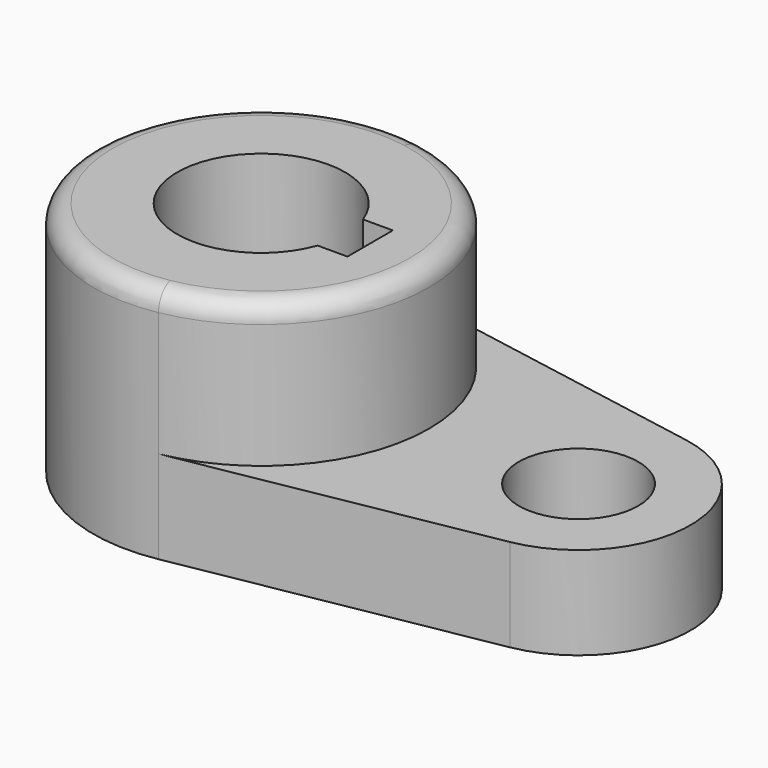
from build123d import *

# Parameters (mm, degrees)
F0_R     = 10.16
F1_DEPTH = 15.7734
F3_DEPTH = 24.4602
F4_R     = 3.302


with BuildPart() as f1:
    # F0 (on Top) → F1 (new body)
    with BuildSketch(Plane.XY):
        with BuildLine():
            ThreePointArc((5.0426470588, -28.1265414802), (21.9160245563, -18.3362616868), (28.575, 0))
            ThreePointArc((28.575, 0), (21.9160245563, 18.3362616868), (5.0426470588, 28.1265414802))
            ThreePointArc((5.0426470588, 28.1265414802), (-28.575, 0), (5.0426470588, -28.1265414802))
        make_face()
        with BuildLine():
            ThreePointArc((13.448752708, -4.8232465051), (-14.2875, 0), (13.448752708, 4.8232465051))
            Line((13.448752708, 4.8232465051), (18.5293, 4.8232465051))
            Line((18.5293, 4.8232465051), (18.5293, -4.8232465051))
            Line((18.5293, -4.8232465051), (13.448752708, -4.8232465051))
        make_face(mode=Mode.SUBTRACT)
        with BuildLine():
            ThreePointArc((5.0426470588, 28.1265414802), (21.9160245563, 18.3362616868), (28.575, 0))
            ThreePointArc((28.575, 0), (21.9160245563, -18.3362616868), (5.0426470588, -28.1265414802))
            Line((5.0426470588, -28.1265414802), (57.3367647059, -18.7510276535))
            ThreePointArc((57.3367647059, -18.7510276535), (73.025, 0), (57.3367647059, 18.7510276535))
            Line((57.3367647059, 18.7510276535), (5.0426470588, 28.1265414802))
        make_face()
        with Locations((53.975, 0)):
            Circle(F0_R, mode=Mode.SUBTRACT)
    extrude(amount=F1_DEPTH)

    # F2 (on face) → F3 (join)
    with BuildSketch(Plane.XY.offset(15.7734)):
        with BuildLine():
            ThreePointArc((5.0426470588, -28.1265414802), (21.9160245563, -18.3362616868), (28.575, 0))
            ThreePointArc((28.575, 0), (21.9160245563, 18.3362616868), (5.0426470588, 28.1265414802))
            ThreePointArc((5.0426470588, 28.1265414802), (-28.575, 0), (5.0426470588, -28.1265414802))
        make_face()
        with BuildLine():
            Line((18.5293, -4.8232465051), (13.448752708, -4.8232465051))
            ThreePointArc((13.448752708, -4.8232465051), (-14.2875, 0), (13.448752708, 4.8232465051))
            Line((13.448752708, 4.8232465051), (18.5293, 4.8232465051))
            Line((18.5293, 4.8232465051), (18.5293, -4.8232465051))
        make_face(mode=Mode.SUBTRACT)
    extrude(amount=F3_DEPTH)

    # F4
    f4_edges = [f1.edges().sort_by_distance(p)[0] for p in [
        (-5.042647, 28.126541, 40.2336),
    ]]
    fillet(f4_edges, radius=F4_R)


solid = f1.part
